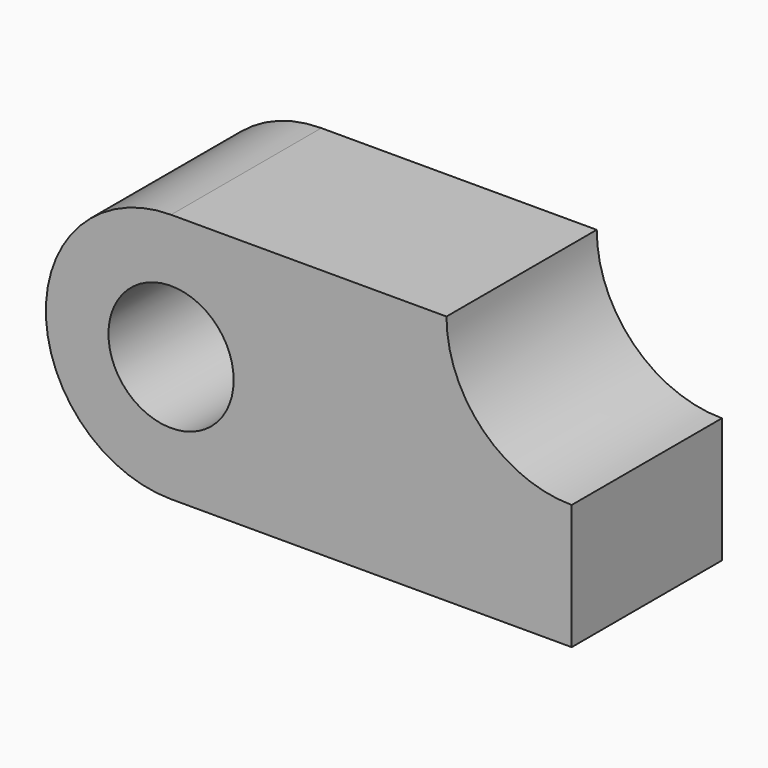
from build123d import *

# Parameters (mm, degrees)
F0_R     = 15.875
F1_DEPTH = 47.625


with BuildPart() as f1:
    # F0 (on Front) → F1 (new body)
    with BuildSketch(Plane.XZ):
        with BuildLine():
            ThreePointArc((-65.487075, 63.5), (-97.237075, 31.75), (-65.487075, 0))
            Line((-65.487075, 0), (36.112925, 0))
            Line((36.112925, 0), (36.112925, 31.75))
            ThreePointArc((36.112925, 31.75), (13.662285, 41.04936), (4.362925, 63.5))
            Line((4.362925, 63.5), (-65.487075, 63.5))
        make_face()
        with Locations((-65.487075, 31.75)):
            Circle(F0_R, mode=Mode.SUBTRACT)
    extrude(amount=F1_DEPTH)


solid = f1.part
